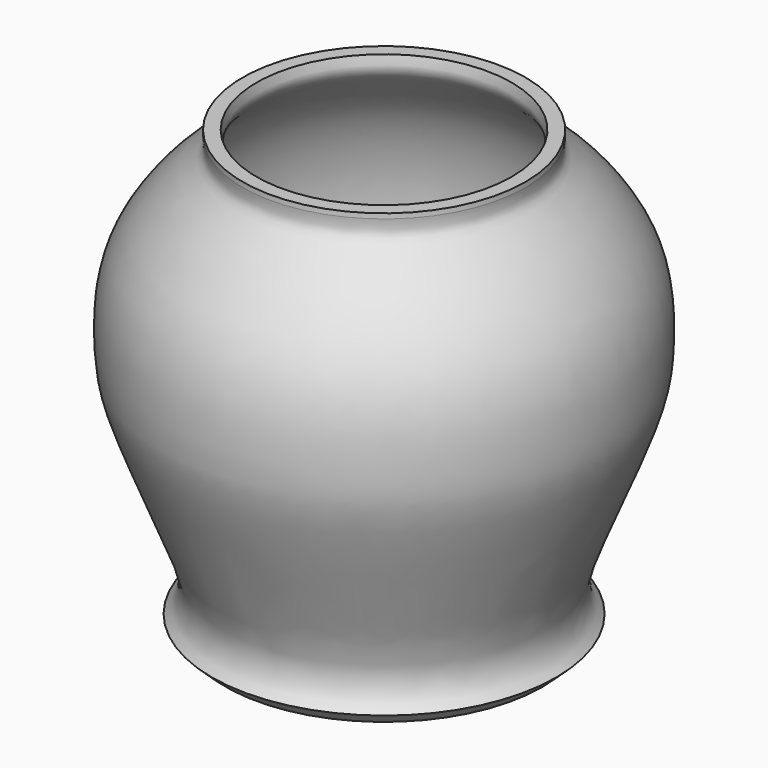
from build123d import *


with BuildPart() as f1:
    # F0 (on Front) → F1 (revolve)
    with BuildSketch(Plane.XZ):
        with BuildLine():
            Line((91.2885814905, 77.7466148138), (87.1748402715, 77.7466148138))
            add(Edge.make_bspline(
                [(87.1748402715, 77.7466148138), (86.7272591648, 76.1767636607), (85.3397787187, 71.3102986873), (106.5358818794, 58.4240736014), (114.6192162363, 24.6351033184), (109.434907127, 0.5051997251), (96.0114312875, -27.5206584671), (91.2819440813, -39.5009211246), (92.4896078296, -43.8079689406), (92.9768234491, -45.5455891788)],
                knots=[0, 0, 0, 0, 0.0761869429, 0.2361759512, 0.4347044576, 0.60832304, 0.7991224776, 0.9189586781, 1, 1, 1, 1], degree=3))
            Line((92.9768234491, -45.5455891788), (53.4039624035, -45.5455891788))
            Line((53.4039624035, -45.5455891788), (53.4039624035, -49.1852760315))
            Line((53.4039624035, -49.1852760315), (91.6160643101, -49.1852760315))
            Line((91.6160643101, -49.1852760315), (91.6160643101, -52.9544986784))
            Line((91.6160643101, -52.9544986784), (96.4250713587, -52.9544986784))
            Line((96.4250713587, -52.9544986784), (100.4542410374, -49.1852760315))
            add(Edge.make_bspline(
                [(100.4542410374, -49.1852760315), (99.7513433453, -48.5441275234), (98.0744113775, -47.0145131264), (95.9666378949, -40.4474340897), (100.1576717412, -27.0479008604), (115.425585286, 7.5733210085), (116.919944147, 21.8648937938), (116.4567141252, 45.7327860663), (99.622227913, 65.4815161074), (90.53637535, 71.0368696413), (91.0715947301, 74.759830054), (91.2885814905, 76.2691795826)],
                knots=[0, 0, 0, 0, 0.0528079014, 0.1259859849, 0.2404757226, 0.4265721857, 0.545130311, 0.6891167006, 0.8431862147, 0.9364251062, 1, 1, 1, 1], degree=3))
            Line((91.2885814905, 76.2691795826), (91.2885814905, 77.7466148138))
        make_face()
    revolve(axis=Axis((49.1575188935, 0, 14.9217657745), (0, 0, 1)))


solid = f1.part
